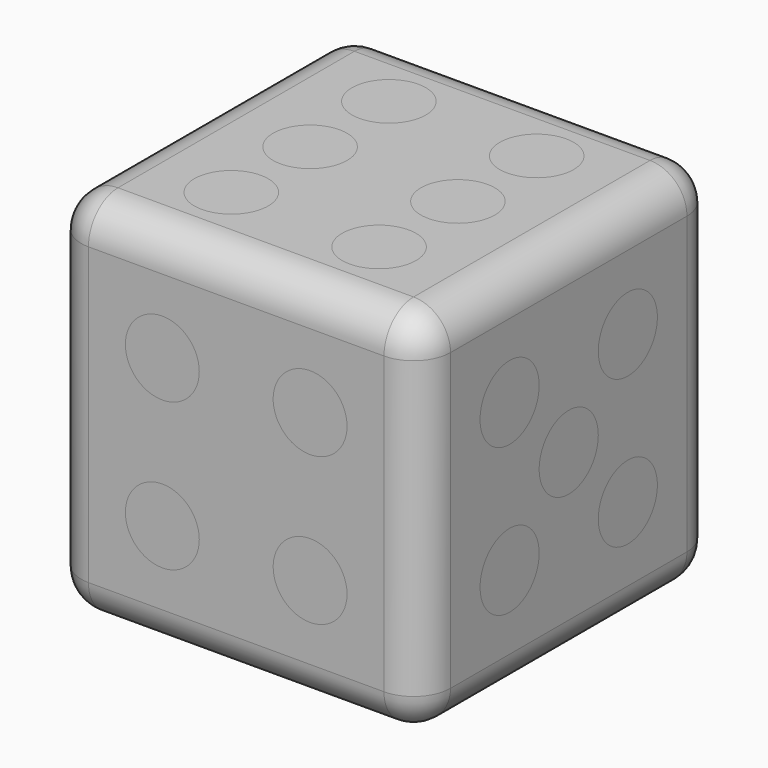
from build123d import *

# Parameters (mm, degrees)
F0_W      = 25.4
F0_H      = 25.4
F1_DEPTH  = 12.7
F2_W      = 25.4
F2_H      = 25.4
F2_W_2    = 17.78
F2_H_2    = 17.78
F3_DEPTH  = 8.89
F4_W      = 25.4
F4_H      = 25.4
F5_DEPTH  = 3.81
F6_R      = 2.54
F8_DEPTH  = 2.54
F9_R      = 2.54
F10_DEPTH = 2.54
F12_DEPTH = 2.54
F14_DEPTH = 2.54
F15_R     = 2.54
F16_DEPTH = 2.54
F18_DEPTH = 2.54
F19_DEPTH = 2.54
F20_DEPTH = 2.54
F21_DEPTH = 2.54
F22_DEPTH = 2.54
F23_DEPTH = 2.54
F24_DEPTH = 2.54


with BuildPart() as f1:
    # F0 (on Top) → F1 (new body)
    with BuildSketch(Plane.XY):
        with Locations((-40.1477050036, 31.3783520141)):
            Rectangle(F0_W, F0_H)
    extrude(amount=F1_DEPTH)

    # F2 (on face) → F3 (join)
    with BuildSketch(Plane.XY.offset(12.7)):
        with Locations((-40.1477050036, 31.3783520141)):
            Rectangle(F2_W, F2_H)
        with Locations((-40.1477050036, 31.3783520141)):
            Rectangle(F2_W_2, F2_H_2, mode=Mode.SUBTRACT)
    extrude(amount=F3_DEPTH)

    # F4 (on face) → F5 (join)
    with BuildSketch(Plane.XY.offset(21.59)):
        with Locations((-40.1477050036, 31.3783520141)):
            Rectangle(F4_W, F4_H)
    extrude(amount=F5_DEPTH)

    # F6
    f6_edges = [f1.edges().sort_by_distance(p)[0] for p in [
        (-40.147705, 18.678352, 25.4),
        (-27.447705, 31.378352, 25.4),
        (-27.447705, 18.678352, 12.7),
        (-27.447705, 44.078352, 12.7),
        (-40.147705, 44.078352, 25.4),
        (-52.847705, 31.378352, 25.4),
        (-52.847705, 18.678352, 12.7),
        (-40.147705, 18.678352, 0),
        (-52.847705, 31.378352, 0),
        (-40.147705, 44.078352, 0),
        (-27.447705, 31.378352, 0),
        (-52.847705, 44.078352, 12.7),
    ]]
    fillet(f6_edges, radius=F6_R)

    # F7 (on face) → F8 (cut)
    with BuildSketch(Plane.XY.offset(25.4)):
        with BuildLine():
            ThreePointArc((-42.6877050036, 38.1516853475), (-43.4316537794, 39.9477365717), (-45.2277050036, 40.6916853475))
            Line((-45.2277050036, 40.6916853475), (-45.2277050036, 38.1516853475))
            Line((-45.2277050036, 38.1516853475), (-45.2277050036, 35.6116853475))
            ThreePointArc((-45.2277050036, 35.6116853475), (-43.4316537794, 36.3556341233), (-42.6877050036, 38.1516853475))
        make_face()
        with BuildLine():
            Line((-45.2277050036, 38.1516853475), (-45.2277050036, 40.6916853475))
            ThreePointArc((-45.2277050036, 40.6916853475), (-47.7677050036, 38.1516853475), (-45.2277050036, 35.6116853475))
            Line((-45.2277050036, 35.6116853475), (-45.2277050036, 38.1516853475))
        make_face()
        with BuildLine():
            Line((-35.0677050036, 38.1516853475), (-32.5277050036, 38.1516853475))
            ThreePointArc((-32.5277050036, 38.1516853475), (-36.8637562278, 39.9477365717), (-35.0677050036, 35.6116853475))
            Line((-35.0677050036, 35.6116853475), (-35.0677050036, 38.1516853475))
        make_face()
        with BuildLine():
            ThreePointArc((-35.0677050036, 35.6116853475), (-33.2716537794, 36.3556341233), (-32.5277050036, 38.1516853475))
            Line((-32.5277050036, 38.1516853475), (-35.0677050036, 38.1516853475))
            Line((-35.0677050036, 38.1516853475), (-35.0677050036, 35.6116853475))
        make_face()
        with BuildLine():
            ThreePointArc((-32.5277050036, 31.3783520141), (-33.2716537794, 33.1744032384), (-35.0677050036, 33.9183520141))
            ThreePointArc((-35.0677050036, 33.9183520141), (-36.8637562278, 29.5823007899), (-32.5277050036, 31.3783520141))
        make_face()
        with BuildLine():
            ThreePointArc((-32.5277050036, 24.6050186808), (-36.8637562278, 26.401069905), (-35.0677050036, 22.0650186808))
            ThreePointArc((-35.0677050036, 22.0650186808), (-33.2716537794, 22.8089674566), (-32.5277050036, 24.6050186808))
        make_face()
        with BuildLine():
            ThreePointArc((-42.6877050036, 24.6050186808), (-45.2277050036, 27.1450186808), (-47.7677050036, 24.6050186808))
            ThreePointArc((-47.7677050036, 24.6050186808), (-45.2277050036, 22.0650186808), (-42.6877050036, 24.6050186808))
        make_face()
        with BuildLine():
            ThreePointArc((-42.6877050036, 31.3783520141), (-43.4316537794, 33.1744032384), (-45.2277050036, 33.9183520141))
            ThreePointArc((-45.2277050036, 33.9183520141), (-47.0237562278, 29.5823007899), (-42.6877050036, 31.3783520141))
        make_face()
    extrude(amount=-F8_DEPTH, mode=Mode.SUBTRACT)

    # F9 (on face) → F10 (cut)
    with BuildSketch(Plane.YZ.offset(-27.4477050036)):
        with BuildLine():
            ThreePointArc((28.8383520141, 17.78), (28.0944032384, 19.5760512242), (26.2983520141, 20.32))
            Line((26.2983520141, 20.32), (26.2983520141, 17.78))
            Line((26.2983520141, 17.78), (26.2983520141, 15.24))
            ThreePointArc((26.2983520141, 15.24), (28.0944032384, 15.9839487758), (28.8383520141, 17.78))
        make_face()
        with BuildLine():
            Line((26.2983520141, 17.78), (26.2983520141, 20.32))
            ThreePointArc((26.2983520141, 20.32), (23.7583520141, 17.78), (26.2983520141, 15.24))
            Line((26.2983520141, 15.24), (26.2983520141, 17.78))
        make_face()
        with BuildLine():
            ThreePointArc((28.8383520141, 7.62), (28.0944032384, 9.4160512242), (26.2983520141, 10.16))
            ThreePointArc((26.2983520141, 10.16), (24.5023007899, 5.8239487758), (28.8383520141, 7.62))
        make_face()
        with Locations((31.3783520141, 12.7)):
            Circle(F9_R)
        with BuildLine():
            Line((36.4583520141, 17.78), (38.9983520141, 17.78))
            ThreePointArc((38.9983520141, 17.78), (34.6623007899, 19.5760512242), (36.4583520141, 15.24))
            Line((36.4583520141, 15.24), (36.4583520141, 17.78))
        make_face()
        with BuildLine():
            ThreePointArc((36.4583520141, 15.24), (38.2544032384, 15.9839487758), (38.9983520141, 17.78))
            Line((38.9983520141, 17.78), (36.4583520141, 17.78))
            Line((36.4583520141, 17.78), (36.4583520141, 15.24))
        make_face()
        with BuildLine():
            ThreePointArc((38.9983520141, 7.62), (38.2544032384, 9.4160512242), (36.4583520141, 10.16))
            ThreePointArc((36.4583520141, 10.16), (34.6623007899, 5.8239487758), (38.9983520141, 7.62))
        make_face()
    extrude(amount=-F10_DEPTH, mode=Mode.SUBTRACT)

    # F11 (on face) → F12 (cut)
    with BuildSketch(Plane(origin=(0, 44.0783520141, 0), x_dir=(-1, 0, 0), z_dir=(0, 1, 0))):
        with BuildLine():
            ThreePointArc((37.6077050036, 17.78), (36.8637562278, 19.5760512242), (35.0677050036, 20.32))
            ThreePointArc((35.0677050036, 20.32), (33.2716537794, 15.9839487758), (37.6077050036, 17.78))
        make_face()
        with BuildLine():
            ThreePointArc((42.6877050036, 12.7), (41.9437562278, 14.4960512242), (40.1477050036, 15.24))
            ThreePointArc((40.1477050036, 15.24), (38.3516537794, 10.9039487758), (42.6877050036, 12.7))
        make_face()
        with BuildLine():
            ThreePointArc((47.7677050036, 7.62), (43.4316537794, 9.4160512242), (45.2277050036, 5.08))
            ThreePointArc((45.2277050036, 5.08), (47.0237562278, 5.8239487758), (47.7677050036, 7.62))
        make_face()
    extrude(amount=-F12_DEPTH, mode=Mode.SUBTRACT)

    # F13 (on face) → F14 (cut)
    with BuildSketch(Plane(origin=(-52.8477050036, 0, 0), x_dir=(0, -1, 0), z_dir=(-1, 0, 0))):
        with BuildLine():
            ThreePointArc((-33.9183520141, 17.78), (-34.6623007899, 19.5760512242), (-36.4583520141, 20.32))
            ThreePointArc((-36.4583520141, 20.32), (-38.2544032384, 15.9839487758), (-33.9183520141, 17.78))
        make_face()
        with BuildLine():
            ThreePointArc((-23.7583520141, 7.62), (-28.0944032384, 9.4160512242), (-26.2983520141, 5.08))
            ThreePointArc((-26.2983520141, 5.08), (-24.5023007899, 5.8239487758), (-23.7583520141, 7.62))
        make_face()
    extrude(amount=-F14_DEPTH, mode=Mode.SUBTRACT)

    # F15 (on face) → F16 (cut)
    with BuildSketch(Plane.XZ.offset(-18.6783520141)):
        with BuildLine():
            ThreePointArc((-42.6877050036, 17.78), (-43.4316537794, 19.5760512242), (-45.2277050036, 20.32))
            ThreePointArc((-45.2277050036, 20.32), (-47.0237562278, 15.9839487758), (-42.6877050036, 17.78))
        make_face()
        with Locations((-35.0677050036, 17.78)):
            Circle(F15_R)
        with BuildLine():
            ThreePointArc((-32.5277050036, 7.62), (-36.8637562278, 9.4160512242), (-35.0677050036, 5.08))
            ThreePointArc((-35.0677050036, 5.08), (-33.2716537794, 5.8239487758), (-32.5277050036, 7.62))
        make_face()
        with BuildLine():
            ThreePointArc((-42.6877050036, 7.62), (-47.0237562278, 9.4160512242), (-45.2277050036, 5.08))
            ThreePointArc((-45.2277050036, 5.08), (-43.4316537794, 5.8239487758), (-42.6877050036, 7.62))
        make_face()
    extrude(amount=-F16_DEPTH, mode=Mode.SUBTRACT)

    # F17 (on face) → F18 (cut)
    with BuildSketch(Plane(origin=(0, 0, 0), x_dir=(1, 0, 0), z_dir=(0, 0, -1))):
        with BuildLine():
            ThreePointArc((-37.6077050036, -31.3783520141), (-38.3516537794, -29.5823007899), (-40.1477050036, -28.8383520141))
            ThreePointArc((-40.1477050036, -28.8383520141), (-41.9437562278, -33.1744032384), (-37.6077050036, -31.3783520141))
        make_face()
    extrude(amount=-F18_DEPTH, mode=Mode.SUBTRACT)


with BuildPart() as f19:
    # F11 (on face) → F19 (new body)
    with BuildSketch(Plane(origin=(0, 44.0783520141, 0), x_dir=(-1, 0, 0), z_dir=(0, 1, 0))):
        with BuildLine():
            ThreePointArc((37.6077050036, 17.78), (36.8637562278, 19.5760512242), (35.0677050036, 20.32))
            ThreePointArc((35.0677050036, 20.32), (33.2716537794, 15.9839487758), (37.6077050036, 17.78))
        make_face()
    extrude(amount=-F19_DEPTH)


with BuildPart() as f19b:
    # F11 (on face) → F19, piece 2 (new body)
    with BuildSketch(Plane(origin=(0, 44.0783520141, 0), x_dir=(-1, 0, 0), z_dir=(0, 1, 0))):
        with BuildLine():
            ThreePointArc((42.6877050036, 12.7), (41.9437562278, 14.4960512242), (40.1477050036, 15.24))
            ThreePointArc((40.1477050036, 15.24), (38.3516537794, 10.9039487758), (42.6877050036, 12.7))
        make_face()
    extrude(amount=-F19_DEPTH)


with BuildPart() as f19c:
    # F11 (on face) → F19, piece 3 (new body)
    with BuildSketch(Plane(origin=(0, 44.0783520141, 0), x_dir=(-1, 0, 0), z_dir=(0, 1, 0))):
        with BuildLine():
            ThreePointArc((47.7677050036, 7.62), (43.4316537794, 9.4160512242), (45.2277050036, 5.08))
            ThreePointArc((45.2277050036, 5.08), (47.0237562278, 5.8239487758), (47.7677050036, 7.62))
        make_face()
    extrude(amount=-F19_DEPTH)


with BuildPart() as f20:
    # F9 (on face) → F20 (new body)
    with BuildSketch(Plane.YZ.offset(-27.4477050036)):
        with BuildLine():
            ThreePointArc((28.8383520141, 17.78), (28.0944032384, 19.5760512242), (26.2983520141, 20.32))
            Line((26.2983520141, 20.32), (26.2983520141, 17.78))
            Line((26.2983520141, 17.78), (26.2983520141, 15.24))
            ThreePointArc((26.2983520141, 15.24), (28.0944032384, 15.9839487758), (28.8383520141, 17.78))
        make_face()
        with BuildLine():
            Line((26.2983520141, 17.78), (26.2983520141, 20.32))
            ThreePointArc((26.2983520141, 20.32), (23.7583520141, 17.78), (26.2983520141, 15.24))
            Line((26.2983520141, 15.24), (26.2983520141, 17.78))
        make_face()
    extrude(amount=-F20_DEPTH)


with BuildPart() as f20b:
    # F9 (on face) → F20, piece 2 (new body)
    with BuildSketch(Plane.YZ.offset(-27.4477050036)):
        with BuildLine():
            Line((36.4583520141, 17.78), (38.9983520141, 17.78))
            ThreePointArc((38.9983520141, 17.78), (34.6623007899, 19.5760512242), (36.4583520141, 15.24))
            Line((36.4583520141, 15.24), (36.4583520141, 17.78))
        make_face()
        with BuildLine():
            ThreePointArc((36.4583520141, 15.24), (38.2544032384, 15.9839487758), (38.9983520141, 17.78))
            Line((38.9983520141, 17.78), (36.4583520141, 17.78))
            Line((36.4583520141, 17.78), (36.4583520141, 15.24))
        make_face()
    extrude(amount=-F20_DEPTH)


with BuildPart() as f20c:
    # F9 (on face) → F20, piece 3 (new body)
    with BuildSketch(Plane.YZ.offset(-27.4477050036)):
        with BuildLine():
            ThreePointArc((28.8383520141, 7.62), (28.0944032384, 9.4160512242), (26.2983520141, 10.16))
            ThreePointArc((26.2983520141, 10.16), (24.5023007899, 5.8239487758), (28.8383520141, 7.62))
        make_face()
    extrude(amount=-F20_DEPTH)


with BuildPart() as f20d:
    # F9 (on face) → F20, piece 4 (new body)
    with BuildSketch(Plane.YZ.offset(-27.4477050036)):
        with Locations((31.3783520141, 12.7)):
            Circle(F9_R)
    extrude(amount=-F20_DEPTH)


with BuildPart() as f20e:
    # F9 (on face) → F20, piece 5 (new body)
    with BuildSketch(Plane.YZ.offset(-27.4477050036)):
        with BuildLine():
            ThreePointArc((38.9983520141, 7.62), (38.2544032384, 9.4160512242), (36.4583520141, 10.16))
            ThreePointArc((36.4583520141, 10.16), (34.6623007899, 5.8239487758), (38.9983520141, 7.62))
        make_face()
    extrude(amount=-F20_DEPTH)


with BuildPart() as f21:
    # F13 (on face) → F21 (new body)
    with BuildSketch(Plane(origin=(-52.8477050036, 0, 0), x_dir=(0, -1, 0), z_dir=(-1, 0, 0))):
        with BuildLine():
            ThreePointArc((-33.9183520141, 17.78), (-34.6623007899, 19.5760512242), (-36.4583520141, 20.32))
            ThreePointArc((-36.4583520141, 20.32), (-38.2544032384, 15.9839487758), (-33.9183520141, 17.78))
        make_face()
    extrude(amount=-F21_DEPTH)


with BuildPart() as f21b:
    # F13 (on face) → F21, piece 2 (new body)
    with BuildSketch(Plane(origin=(-52.8477050036, 0, 0), x_dir=(0, -1, 0), z_dir=(-1, 0, 0))):
        with BuildLine():
            ThreePointArc((-23.7583520141, 7.62), (-28.0944032384, 9.4160512242), (-26.2983520141, 5.08))
            ThreePointArc((-26.2983520141, 5.08), (-24.5023007899, 5.8239487758), (-23.7583520141, 7.62))
        make_face()
    extrude(amount=-F21_DEPTH)


with BuildPart() as f22:
    # F15 (on face) → F22 (new body)
    with BuildSketch(Plane.XZ.offset(-18.6783520141)):
        with BuildLine():
            ThreePointArc((-42.6877050036, 17.78), (-43.4316537794, 19.5760512242), (-45.2277050036, 20.32))
            ThreePointArc((-45.2277050036, 20.32), (-47.0237562278, 15.9839487758), (-42.6877050036, 17.78))
        make_face()
    extrude(amount=-F22_DEPTH)


with BuildPart() as f22b:
    # F15 (on face) → F22, piece 2 (new body)
    with BuildSketch(Plane.XZ.offset(-18.6783520141)):
        with Locations((-35.0677050036, 17.78)):
            Circle(F15_R)
    extrude(amount=-F22_DEPTH)


with BuildPart() as f22c:
    # F15 (on face) → F22, piece 3 (new body)
    with BuildSketch(Plane.XZ.offset(-18.6783520141)):
        with BuildLine():
            ThreePointArc((-32.5277050036, 7.62), (-36.8637562278, 9.4160512242), (-35.0677050036, 5.08))
            ThreePointArc((-35.0677050036, 5.08), (-33.2716537794, 5.8239487758), (-32.5277050036, 7.62))
        make_face()
    extrude(amount=-F22_DEPTH)


with BuildPart() as f22d:
    # F15 (on face) → F22, piece 4 (new body)
    with BuildSketch(Plane.XZ.offset(-18.6783520141)):
        with BuildLine():
            ThreePointArc((-42.6877050036, 7.62), (-47.0237562278, 9.4160512242), (-45.2277050036, 5.08))
            ThreePointArc((-45.2277050036, 5.08), (-43.4316537794, 5.8239487758), (-42.6877050036, 7.62))
        make_face()
    extrude(amount=-F22_DEPTH)


with BuildPart() as f23:
    # F17 (on face) → F23 (new body)
    with BuildSketch(Plane(origin=(0, 0, 0), x_dir=(1, 0, 0), z_dir=(0, 0, -1))):
        with BuildLine():
            ThreePointArc((-37.6077050036, -31.3783520141), (-38.3516537794, -29.5823007899), (-40.1477050036, -28.8383520141))
            ThreePointArc((-40.1477050036, -28.8383520141), (-41.9437562278, -33.1744032384), (-37.6077050036, -31.3783520141))
        make_face()
    extrude(amount=-F23_DEPTH)


with BuildPart() as f24:
    # F7 (on face) → F24 (new body)
    with BuildSketch(Plane.XY.offset(25.4)):
        with BuildLine():
            Line((-45.2277050036, 38.1516853475), (-45.2277050036, 40.6916853475))
            ThreePointArc((-45.2277050036, 40.6916853475), (-47.7677050036, 38.1516853475), (-45.2277050036, 35.6116853475))
            Line((-45.2277050036, 35.6116853475), (-45.2277050036, 38.1516853475))
        make_face()
        with BuildLine():
            ThreePointArc((-42.6877050036, 38.1516853475), (-43.4316537794, 39.9477365717), (-45.2277050036, 40.6916853475))
            Line((-45.2277050036, 40.6916853475), (-45.2277050036, 38.1516853475))
            Line((-45.2277050036, 38.1516853475), (-45.2277050036, 35.6116853475))
            ThreePointArc((-45.2277050036, 35.6116853475), (-43.4316537794, 36.3556341233), (-42.6877050036, 38.1516853475))
        make_face()
    extrude(amount=-F24_DEPTH)


with BuildPart() as f24b:
    # F7 (on face) → F24, piece 2 (new body)
    with BuildSketch(Plane.XY.offset(25.4)):
        with BuildLine():
            ThreePointArc((-42.6877050036, 31.3783520141), (-43.4316537794, 33.1744032384), (-45.2277050036, 33.9183520141))
            ThreePointArc((-45.2277050036, 33.9183520141), (-47.0237562278, 29.5823007899), (-42.6877050036, 31.3783520141))
        make_face()
    extrude(amount=-F24_DEPTH)


with BuildPart() as f24c:
    # F7 (on face) → F24, piece 3 (new body)
    with BuildSketch(Plane.XY.offset(25.4)):
        with BuildLine():
            ThreePointArc((-42.6877050036, 24.6050186808), (-45.2277050036, 27.1450186808), (-47.7677050036, 24.6050186808))
            ThreePointArc((-47.7677050036, 24.6050186808), (-45.2277050036, 22.0650186808), (-42.6877050036, 24.6050186808))
        make_face()
    extrude(amount=-F24_DEPTH)


with BuildPart() as f24d:
    # F7 (on face) → F24, piece 4 (new body)
    with BuildSketch(Plane.XY.offset(25.4)):
        with BuildLine():
            ThreePointArc((-32.5277050036, 24.6050186808), (-36.8637562278, 26.401069905), (-35.0677050036, 22.0650186808))
            ThreePointArc((-35.0677050036, 22.0650186808), (-33.2716537794, 22.8089674566), (-32.5277050036, 24.6050186808))
        make_face()
    extrude(amount=-F24_DEPTH)


with BuildPart() as f24e:
    # F7 (on face) → F24, piece 5 (new body)
    with BuildSketch(Plane.XY.offset(25.4)):
        with BuildLine():
            ThreePointArc((-32.5277050036, 31.3783520141), (-33.2716537794, 33.1744032384), (-35.0677050036, 33.9183520141))
            ThreePointArc((-35.0677050036, 33.9183520141), (-36.8637562278, 29.5823007899), (-32.5277050036, 31.3783520141))
        make_face()
    extrude(amount=-F24_DEPTH)


with BuildPart() as f24f:
    # F7 (on face) → F24, piece 6 (new body)
    with BuildSketch(Plane.XY.offset(25.4)):
        with BuildLine():
            Line((-35.0677050036, 38.1516853475), (-32.5277050036, 38.1516853475))
            ThreePointArc((-32.5277050036, 38.1516853475), (-36.8637562278, 39.9477365717), (-35.0677050036, 35.6116853475))
            Line((-35.0677050036, 35.6116853475), (-35.0677050036, 38.1516853475))
        make_face()
        with BuildLine():
            ThreePointArc((-35.0677050036, 35.6116853475), (-33.2716537794, 36.3556341233), (-32.5277050036, 38.1516853475))
            Line((-32.5277050036, 38.1516853475), (-35.0677050036, 38.1516853475))
            Line((-35.0677050036, 38.1516853475), (-35.0677050036, 35.6116853475))
        make_face()
    extrude(amount=-F24_DEPTH)


solid = Compound([f1.part, f19.part, f19b.part, f19c.part, f20.part, f20b.part, f20c.part, f20d.part, f20e.part, f21.part, f21b.part, f22.part, f22b.part, f22c.part, f22d.part, f23.part, f24.part, f24b.part, f24c.part, f24d.part, f24e.part, f24f.part])
